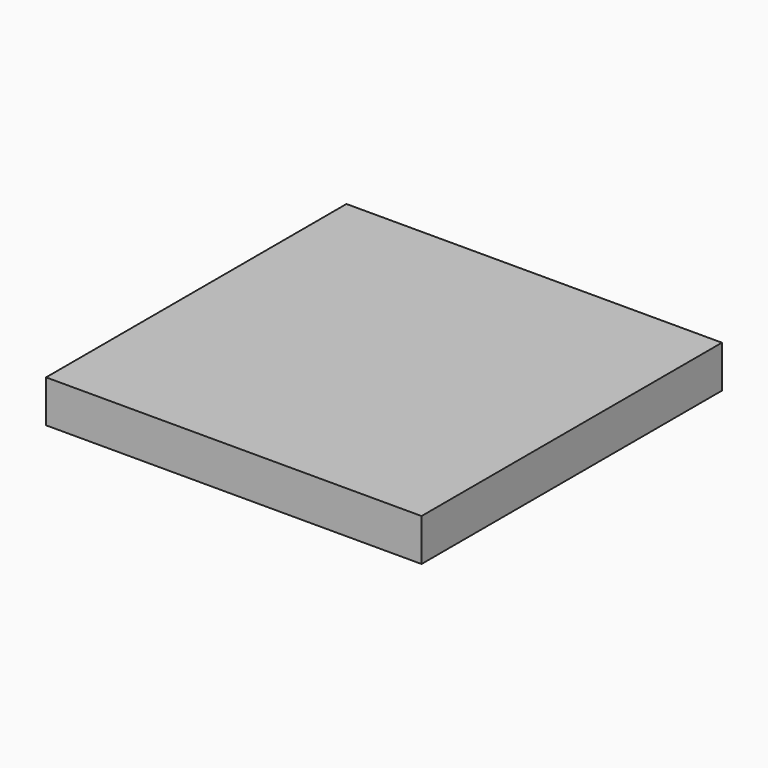
from build123d import *

# Parameters (mm, degrees)
F0_W     = 8
F0_H     = 8
F0_R     = 1.9
F1_DEPTH = 0.9


with BuildPart() as f1:
    # F0 (on Top) → F1 (new body)
    with BuildSketch(Plane.XY):
        Rectangle(F0_W, F0_H)
        Circle(F0_R, mode=Mode.SUBTRACT)
        Circle(F0_R)
    extrude(amount=F1_DEPTH)


solid = f1.part
